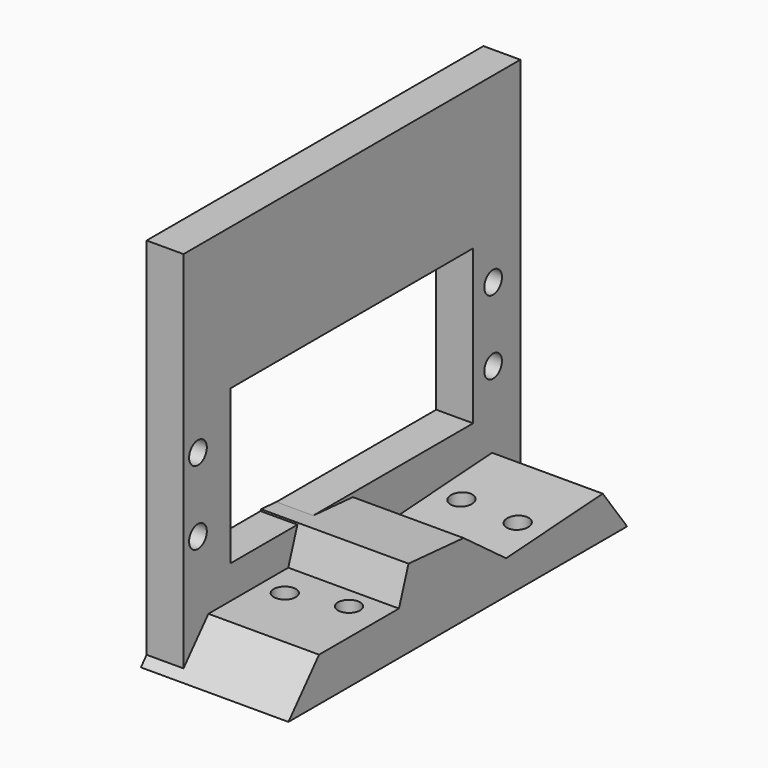
from build123d import *

# Parameters (mm, degrees)
SKETCH010_R   = 1.5
PAD006_DEPTH  = 100
PAD005_DEPTH  = 20
SKETCH008_W   = 57.061168
SKETCH008_H   = 50.408328
SKETCH008_R   = 1.5
SKETCH008_W_2 = 41.061168
SKETCH008_H_2 = 20.879282
PAD004_DEPTH  = 5


with BuildPart() as screwcutouts:
    # Sketch010 → Pad006 (new body)
    with BuildSketch(Plane.XY):
        with Locations((40.429066, 8.263429)):
            Circle(SKETCH010_R)
        with Locations((48.370731, 7.858237)):
            Circle(SKETCH010_R)
        with Locations((40.348022, -21.55835)):
            Circle(SKETCH010_R)
        with Locations((47.560356, -19.694489)):
            Circle(SKETCH010_R)
    extrude(amount=-PAD006_DEPTH)


with BuildPart() as mountsupportpad:
    # Sketch009 → Pad005 (new body)
    with BuildSketch(Plane.YZ.offset(32)):
        Polygon((-35.508293, -20.850826), (-30.321894, -14.935085), (-16.788631, -14.935085), (-15.16788, -10.234911), (-5.848567, -10.964246), (1.363771, -16.312723), (17.733341, -15.259238), (21.866251, -20.850826), align=None)
    extrude(amount=PAD005_DEPTH)


with BuildPart() as cut003:
    # Sketch008 → Pad004 (new body)
    with BuildSketch(Plane.YZ.offset(32)):
        with Locations((-6.005477, 4.48483)):
            Rectangle(SKETCH008_W, SKETCH008_H)
        with Locations((-32.087313, 5.013472)):
            Circle(SKETCH008_R, mode=Mode.SUBTRACT)
        with Locations((-32.087313, -4.986528)):
            Circle(SKETCH008_R, mode=Mode.SUBTRACT)
        with Locations((17.912687, 5.013472)):
            Circle(SKETCH008_R, mode=Mode.SUBTRACT)
        with Locations((17.912687, -4.986528)):
            Circle(SKETCH008_R, mode=Mode.SUBTRACT)
        with Locations((-6.005477, 0)):
            Rectangle(SKETCH008_W_2, SKETCH008_H_2, mode=Mode.SUBTRACT)
    extrude(amount=PAD004_DEPTH)

    # Fusion003: union MountSupportPad
    add(mountsupportpad.part)

    # Cut003: cut ScrewCutouts
    add(screwcutouts.part, mode=Mode.SUBTRACT)


solid = cut003.part
